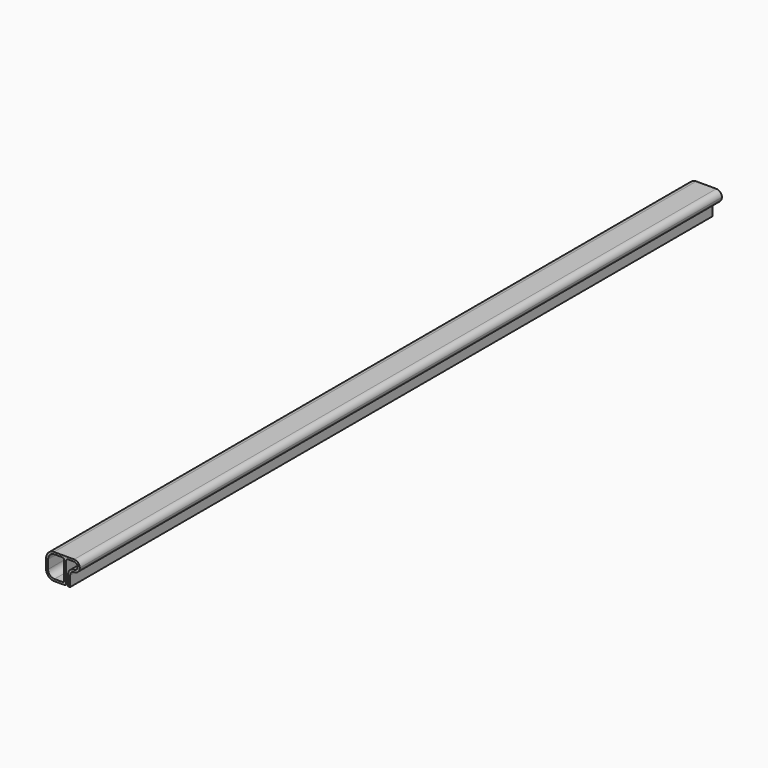
from build123d import *

# Parameters (mm, degrees)
F1_DEPTH = 1000


with BuildPart() as f1:
    # F0 (on Front) → F1 (new body)
    with BuildSketch(Plane.XZ):
        with BuildLine():
            Line((-15, 0), (-2, 0))
            ThreePointArc((-2, 0), (-0.5857864376, 0.5857864376), (0, 2))
            Line((0, 2), (0, 27.5))
            ThreePointArc((0, 27.5), (0.5857864376, 28.9142135624), (2, 29.5))
            Line((2, 29.5), (9.5, 29.5))
            ThreePointArc((9.5, 29.5), (12.8541019662, 28.2080992435), (14.4749371855, 25))
            ThreePointArc((14.4749371855, 25), (12.8541019662, 21.7919007565), (9.5, 20.5))
            ThreePointArc((9.5, 20.5), (4.5502525317, 18.4497474683), (2.5, 13.5))
            Line((2.5, 13.5), (2.5, 0))
            Line((2.5, 0), (5, 0))
            Line((5, 0), (5, 13))
            ThreePointArc((5, 13), (6.4644660941, 16.5355339059), (10, 18))
            ThreePointArc((10, 18), (14.9497474683, 20.0502525317), (17, 25))
            ThreePointArc((17, 25), (14.9497474683, 29.9497474683), (10, 32))
            Line((10, 32), (-15, 32))
            ThreePointArc((-15, 32), (-22.0710678119, 29.0710678119), (-25, 22))
            Line((-25, 22), (-25, 10))
            ThreePointArc((-25, 10), (-22.0710678119, 2.9289321881), (-15, 0))
        make_face()
        with BuildLine():
            ThreePointArc((-14.5, 2.5), (-20.1568542495, 4.8431457505), (-22.5, 10.5))
            Line((-22.5, 10.5), (-22.5, 21.5))
            ThreePointArc((-22.5, 21.5), (-20.1568542495, 27.1568542495), (-14.5, 29.5))
            Line((-14.5, 29.5), (-4.5, 29.5))
            ThreePointArc((-4.5, 29.5), (-3.0857864376, 28.9142135624), (-2.5, 27.5))
            Line((-2.5, 27.5), (-2.5, 4.5))
            ThreePointArc((-2.5, 4.5), (-3.0857864376, 3.0857864376), (-4.5, 2.5))
            Line((-4.5, 2.5), (-14.5, 2.5))
        make_face(mode=Mode.SUBTRACT)
        with BuildLine():
            ThreePointArc((14.5, 24.5), (14.4937303656, 24.7503138753), (14.4749371855, 25))
            ThreePointArc((14.4749371855, 25), (14.4937303656, 25.2496861247), (14.5, 25.5))
            Line((14.5, 25.5), (14.5, 24.5))
        make_face(mode=Mode.SUBTRACT)
        with BuildLine():
            ThreePointArc((14.5, 25.5), (14.4937303656, 25.2496861247), (14.4749371855, 25))
            ThreePointArc((14.4749371855, 25), (14.4937303656, 24.7503138753), (14.5, 24.5))
            Line((14.5, 24.5), (14.5, 25.5))
        make_face()
    extrude(amount=F1_DEPTH)


solid = f1.part
